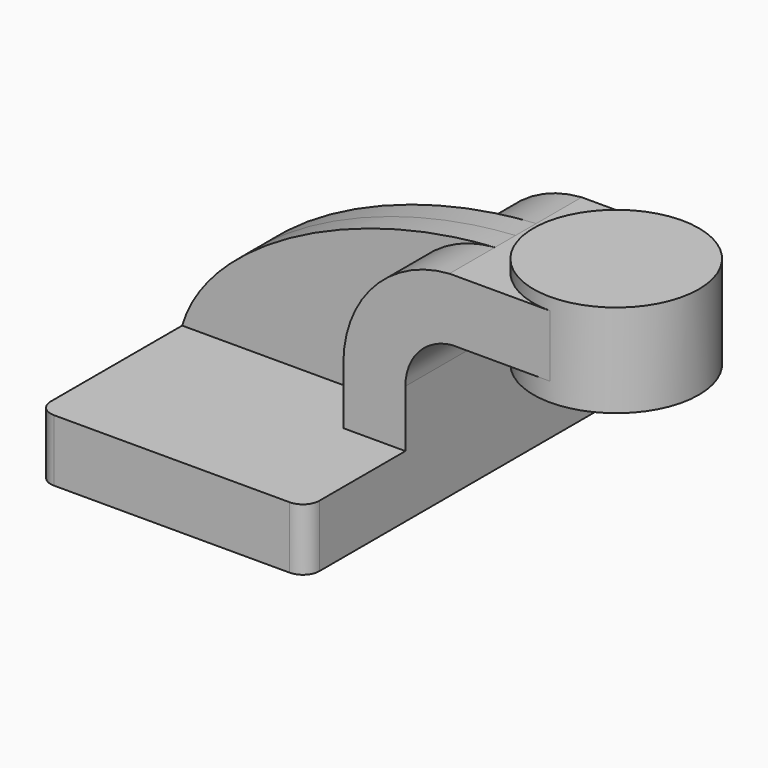
from build123d import *

# Parameters (mm, degrees)
F1_DEPTH = 63.5
F0_W     = 25.4
F0_H     = 19.05
F2_DEPTH = 25.4
F3_DEPTH = 7.9375
F5_R     = 5.08


with BuildPart() as f1:
    # F0 (on Front) → F1 (new body, symmetric)
    with BuildSketch(Plane.XZ):
        Polygon((41.275, -9.525), (41.275, 9.525), (22.225, 9.525), (-41.275, 9.525), (-41.275, -9.525), align=None)
    extrude(amount=F1_DEPTH, both=True)

    # F0 (on Front) → F2 (join, symmetric)
    with BuildSketch(Plane.XZ):
        with BuildLine():
            Line((22.225, 9.525), (41.275, 9.525))
            Line((41.275, 9.525), (41.275, 27.0666779783))
            ThreePointArc((41.275, 27.0666779783), (45.3781164095, 37.7174235733), (55.566449667, 42.8625))
            Line((55.566449667, 42.8625), (60.325, 42.8625))
            Line((60.325, 42.8625), (60.325, 61.9125))
            Line((60.325, 61.9125), (54.799614366, 61.9125))
            ThreePointArc((54.799614366, 61.9125), (31.6368382666, 50.9169233306), (22.225, 27.0666779783))
            Line((22.225, 27.0666779783), (22.225, 9.525))
        make_face()
        with Locations((73.025, 52.3875)):
            Rectangle(F0_W, F0_H)
    extrude(amount=F2_DEPTH, both=True)

    # F0 (on Front) → F3 (join, symmetric)
    with BuildSketch(Plane.XZ):
        with BuildLine():
            Line((-41.275, 9.525), (22.225, 9.525))
            Line((22.225, 9.525), (22.225, 27.0666779783))
            ThreePointArc((22.225, 27.0666779783), (31.6368382666, 50.9169233306), (54.799614366, 61.9125))
            add(Edge.make_bspline(
                [(-41.275, 9.525), (-33.6213931441, 35.8969122171), (10.3490389884, 59.2281594872), (54.799614366, 61.9125)],
                knots=[0, 0, 0, 0, 109.4293456154, 109.4293456154, 109.4293456154, 109.4293456154], degree=3))
        make_face()
    extrude(amount=F3_DEPTH, both=True)

    # F0 (on Front) → F4 (revolve)
    with BuildSketch(Plane.XZ):
        Polygon((85.725, 61.9125), (85.725, 42.8625), (85.725, 37.1208467424), (111.125, 37.1208467424), (111.125, 65.6958467424), (85.725, 65.6958467424), align=None)
    revolve(axis=Axis((85.725, 0, 51.4083467424), (0, 0, 1)))

    # F5
    f5_edges = [f1.edges().sort_by_distance(p)[0] for p in [
        (41.275, -63.5, 0),
        (41.275, 63.5, 0),
        (-41.275, -63.5, 0),
        (-41.275, 63.5, 0),
        (41.275, 0, 27.066678),
    ]]
    fillet(f5_edges, radius=F5_R)


solid = f1.part
